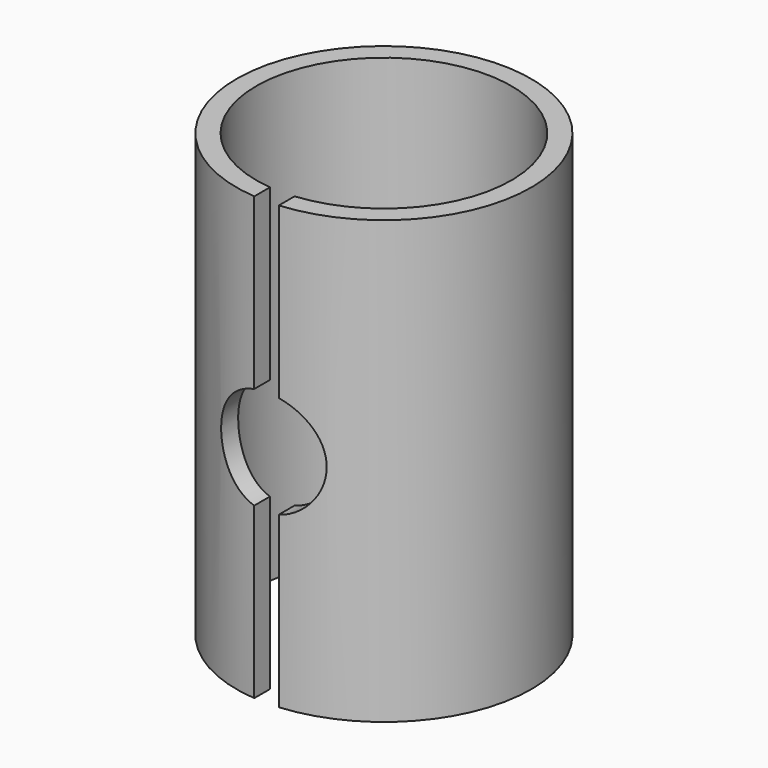
from build123d import *

# Parameters (mm, degrees)
SKETCH009_R       = 30
SKETCH009_R_2     = 26
PAD002_DEPTH      = 45
PAD002_DEPTH_BACK = 45
SKETCH010_R       = 10.75
POCKET007_DEPTH   = 30.001
SKETCH027_W       = 5
SKETCH027_H       = 90
POCKET012_DEPTH   = 30.001


with BuildPart() as part:
    # Sketch009 → Pad002 (new body, two sides)
    with BuildSketch(Plane.XY) as pad002_sk:
        Circle(SKETCH009_R)
        Circle(SKETCH009_R_2, mode=Mode.SUBTRACT)
    extrude(amount=PAD002_DEPTH)
    extrude(pad002_sk.sketch, amount=-PAD002_DEPTH_BACK)

    # Sketch010 → Pocket007 (cut, through all)
    with BuildSketch(Plane.XZ):
        Circle(SKETCH010_R)
    extrude(amount=POCKET007_DEPTH, mode=Mode.SUBTRACT)

    # Sketch027 → Pocket012 (cut, through all)
    with BuildSketch(Plane.XZ):
        Rectangle(SKETCH027_W, SKETCH027_H)
    extrude(amount=POCKET012_DEPTH, mode=Mode.SUBTRACT)


solid = part.part
